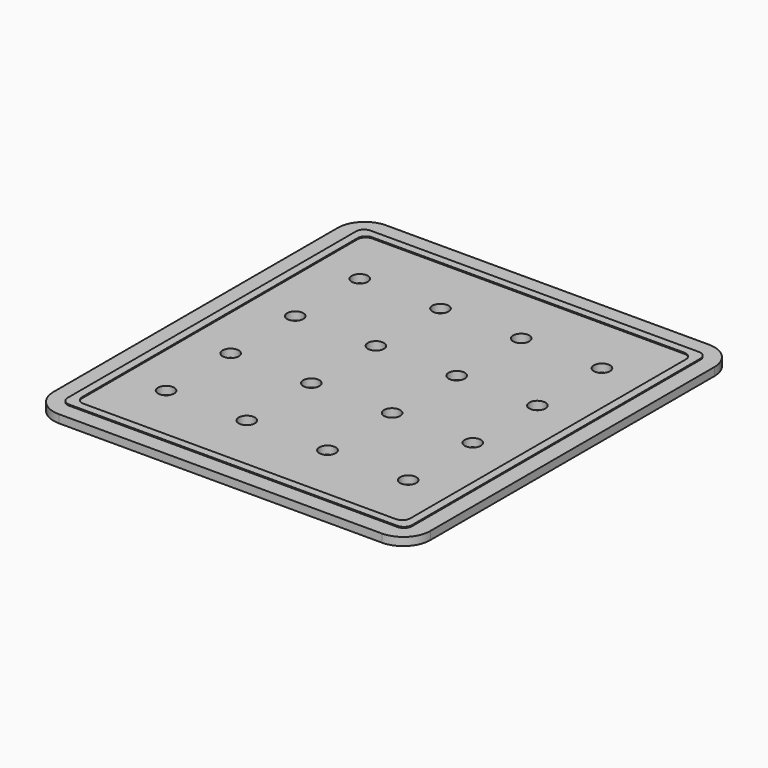
from build123d import *

# Parameters (mm, degrees)
SKETCH001_W  = 70
SKETCH001_H  = 76
SKETCH001_R  = 1.5
PAD_DEPTH    = 1.5
FILLET_R     = 5
SKETCH_W     = 64
SKETCH_H     = 70
SKETCH_W_2   = 61
SKETCH_H_2   = 67
PAD001_DEPTH = 1.7
FILLET001_R  = 1.5


with BuildPart() as body:
    # Sketch001 → Pad (new body)
    with BuildSketch(Plane.XY):
        Rectangle(SKETCH001_W, SKETCH001_H)
        with Locations((-22.5, 22.5)):
            Circle(SKETCH001_R, mode=Mode.SUBTRACT)
        with Locations((-7.5, 22.5)):
            Circle(SKETCH001_R, mode=Mode.SUBTRACT)
        with Locations((7.5, 22.5)):
            Circle(SKETCH001_R, mode=Mode.SUBTRACT)
        with Locations((22.5, 22.5)):
            Circle(SKETCH001_R, mode=Mode.SUBTRACT)
        with Locations((-22.5, 7.5)):
            Circle(SKETCH001_R, mode=Mode.SUBTRACT)
        with Locations((-7.5, 7.5)):
            Circle(SKETCH001_R, mode=Mode.SUBTRACT)
        with Locations((7.5, 7.5)):
            Circle(SKETCH001_R, mode=Mode.SUBTRACT)
        with Locations((22.5, 7.5)):
            Circle(SKETCH001_R, mode=Mode.SUBTRACT)
        with Locations((-22.5, -7.5)):
            Circle(SKETCH001_R, mode=Mode.SUBTRACT)
        with Locations((-7.5, -7.5)):
            Circle(SKETCH001_R, mode=Mode.SUBTRACT)
        with Locations((7.5, -7.5)):
            Circle(SKETCH001_R, mode=Mode.SUBTRACT)
        with Locations((22.5, -7.5)):
            Circle(SKETCH001_R, mode=Mode.SUBTRACT)
        with Locations((-22.5, -22.5)):
            Circle(SKETCH001_R, mode=Mode.SUBTRACT)
        with Locations((-7.5, -22.5)):
            Circle(SKETCH001_R, mode=Mode.SUBTRACT)
        with Locations((7.5, -22.5)):
            Circle(SKETCH001_R, mode=Mode.SUBTRACT)
        with Locations((22.5, -22.5)):
            Circle(SKETCH001_R, mode=Mode.SUBTRACT)
    extrude(amount=PAD_DEPTH)

    # Fillet
    fillet_edges = [body.edges().sort_by_distance(p)[0] for p in [
        (-35, 38, 0.75),
        (35, -38, 0.75),
        (-35, -38, 0.75),
        (35, 38, 0.75),
    ]]
    fillet(fillet_edges, radius=FILLET_R)


with BuildPart() as body001:
    # Sketch → Pad001 (new body)
    with BuildSketch(Plane.XY):
        Rectangle(SKETCH_W, SKETCH_H)
        Rectangle(SKETCH_W_2, SKETCH_H_2, mode=Mode.SUBTRACT)
    extrude(amount=PAD001_DEPTH)

    # Fillet001
    fillet001_edges = [body001.edges().sort_by_distance(p)[0] for p in [
        (32, -35, 0.85),
        (30.5, -33.5, 0.85),
        (32, 35, 0.85),
        (30.5, 33.5, 0.85),
        (-30.5, 33.5, 0.85),
        (-32, 35, 0.85),
        (-32, -35, 0.85),
        (-30.5, -33.5, 0.85),
    ]]
    fillet(fillet001_edges, radius=FILLET001_R)


solid = Compound([body.part, body001.part])
